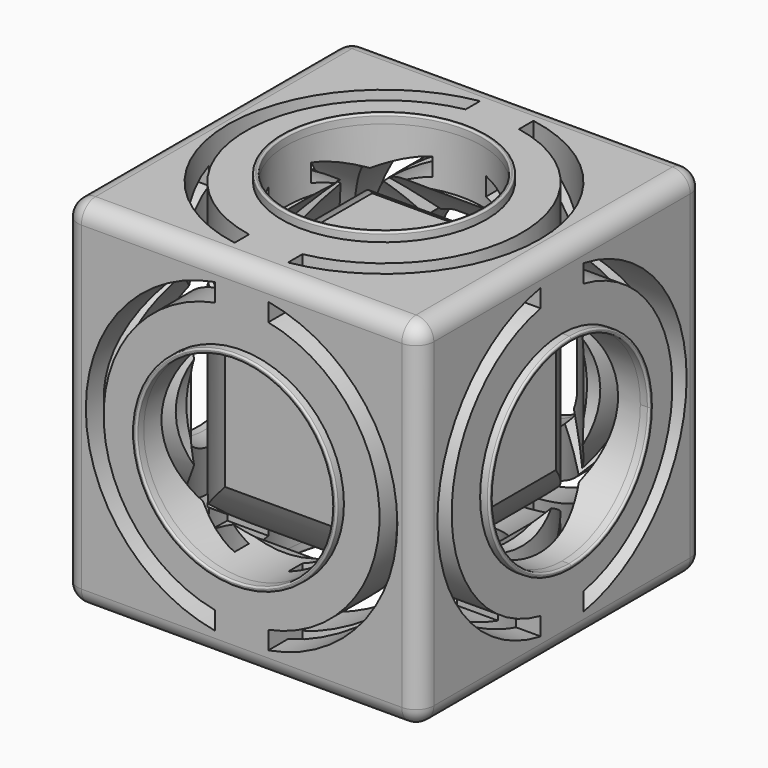
from build123d import *

# Parameters (mm, degrees)
F1_DEPTH  = 40
F2_R      = 11
F3_DEPTH  = 6
F4_R      = 11
F5_DEPTH  = 6
F6_R      = 11
F7_DEPTH  = 6
F8_R      = 11
F9_DEPTH  = 6
F10_R     = 11
F11_DEPTH = 6
F12_R     = 11
F13_DEPTH = 6
F15_DEPTH = 40
F17_DEPTH = 40
F19_DEPTH = 40
F20_R     = 11.5
F20_R_2   = 11
F21_DEPTH = 1
F22_R     = 11.5
F22_R_2   = 11
F23_DEPTH = 1
F25_DEPTH = 1
F26_R     = 11.5
F26_R_2   = 11
F27_DEPTH = 1
F28_R     = 11.5
F28_R_2   = 11
F29_DEPTH = 1
F30_R     = 11.5
F30_R_2   = 11
F31_DEPTH = 1
F32_R     = 2
F33_R     = 0.2


with BuildPart() as f1:
    # F0 (on Top) → F1 (new body)
    with BuildSketch(Plane.XY):
        Polygon((20, 20), (0, 20), (-20, 20), (-20, 0), (-20, -20), (0, -20), (20, -20), (20, 0), align=None)
    extrude(amount=F1_DEPTH)

    # F2 (on face) → F3 (cut)
    with BuildSketch(Plane(origin=(0, 0, 0), x_dir=(1, 0, 0), z_dir=(0, 0, -1))):
        Circle(F2_R)
    extrude(amount=-F3_DEPTH, mode=Mode.SUBTRACT)

    # F4 (on face) → F5 (cut)
    with BuildSketch(Plane.XY.offset(40)):
        Circle(F4_R)
    extrude(amount=-F5_DEPTH, mode=Mode.SUBTRACT)

    # F6 (on face) → F7 (cut)
    with BuildSketch(Plane.XZ.offset(20)):
        with Locations((0, 20)):
            Circle(F6_R)
    extrude(amount=-F7_DEPTH, mode=Mode.SUBTRACT)

    # F8 (on face) → F9 (cut)
    with BuildSketch(Plane.YZ.offset(20)):
        with Locations((0, 20)):
            Circle(F8_R)
    extrude(amount=-F9_DEPTH, mode=Mode.SUBTRACT)

    # F10 (on face) → F11 (cut)
    with BuildSketch(Plane(origin=(0, 20, 0), x_dir=(-1, 0, 0), z_dir=(0, 1, 0))):
        with Locations((0, 20)):
            Circle(F10_R)
    extrude(amount=-F11_DEPTH, mode=Mode.SUBTRACT)

    # F12 (on face) → F13 (cut)
    with BuildSketch(Plane(origin=(-20, 0, 0), x_dir=(0, -1, 0), z_dir=(-1, 0, 0))):
        with Locations((0, 20)):
            Circle(F12_R)
    extrude(amount=-F13_DEPTH, mode=Mode.SUBTRACT)

    # F14 (on face) → F15 (cut)
    with BuildSketch(Plane.XY.offset(40)):
        with BuildLine():
            ThreePointArc((-3, -15.2069063257), (-15.5, 0), (-3, 15.2069063257))
            Line((-3, 15.2069063257), (-3, 17.2409396496))
            ThreePointArc((-3, 17.2409396496), (-17.5, 0), (-3, -17.2409396496))
            Line((-3, -17.2409396496), (-3, -15.2069063257))
        make_face()
        with BuildLine():
            ThreePointArc((3, -17.2409396496), (17.5, 0), (3, 17.2409396496))
            Line((3, 17.2409396496), (3, 15.2069063257))
            ThreePointArc((3, 15.2069063257), (15.5, 0), (3, -15.2069063257))
            Line((3, -15.2069063257), (3, -17.2409396496))
        make_face()
    extrude(amount=-F15_DEPTH, mode=Mode.SUBTRACT)

    # F16 (on face) → F17 (cut)
    with BuildSketch(Plane.YZ.offset(20)):
        with BuildLine():
            ThreePointArc((-3, 4.7930936743), (-15.5, 20), (-3, 35.2069063257))
            Line((-3, 35.2069063257), (-3, 37.2409396496))
            ThreePointArc((-3, 37.2409396496), (-17.5, 20), (-3, 2.7590603504))
            Line((-3, 2.7590603504), (-3, 4.7930936743))
        make_face()
        with BuildLine():
            ThreePointArc((3, 2.7590603504), (17.5, 20), (3, 37.2409396496))
            Line((3, 37.2409396496), (3, 35.2069063257))
            ThreePointArc((3, 35.2069063257), (15.5, 20), (3, 4.7930936743))
            Line((3, 4.7930936743), (3, 2.7590603504))
        make_face()
    extrude(amount=-F17_DEPTH, mode=Mode.SUBTRACT)

    # F18 (on face) → F19 (cut)
    with BuildSketch(Plane(origin=(0, 20, 0), x_dir=(-1, 0, 0), z_dir=(0, 1, 0))):
        with BuildLine():
            ThreePointArc((3, 35.2069063257), (15.5, 20), (3, 4.7930936743))
            Line((3, 4.7930936743), (3, 2.7590603504))
            ThreePointArc((3, 2.7590603504), (17.5, 20), (3, 37.2409396496))
            Line((3, 37.2409396496), (3, 35.2069063257))
        make_face()
        with BuildLine():
            Line((-3, 35.2069063257), (-3, 37.2409396496))
            ThreePointArc((-3, 37.2409396496), (-17.5, 20), (-3, 2.7590603504))
            Line((-3, 2.7590603504), (-3, 4.7930936743))
            ThreePointArc((-3, 4.7930936743), (-15.5, 20), (-3, 35.2069063257))
        make_face()
    extrude(amount=-F19_DEPTH, mode=Mode.SUBTRACT)

    # F20 (on face) → F21 (join)
    with BuildSketch(Plane.XY.offset(40)):
        Circle(F20_R)
        Circle(F20_R_2, mode=Mode.SUBTRACT)
    extrude(amount=F21_DEPTH)

    # F22 (on face) → F23 (join)
    with BuildSketch(Plane(origin=(0, 0, 0), x_dir=(1, 0, 0), z_dir=(0, 0, -1))):
        Circle(F22_R)
        Circle(F22_R_2, mode=Mode.SUBTRACT)
    extrude(amount=F23_DEPTH)

    # F24 (on face) → F25 (join)
    with BuildSketch(Plane.YZ.offset(20)):
        with BuildLine():
            ThreePointArc((11.5, 20), (8.1317279836, 28.1317279836), (0, 31.5))
            Line((0, 31.5), (0, 31))
            ThreePointArc((0, 31), (7.7781745931, 27.7781745931), (11, 20))
            ThreePointArc((11, 20), (7.7781745931, 12.2218254069), (0, 9))
            Line((0, 9), (0, 8.5))
            ThreePointArc((0, 8.5), (8.1317279836, 11.8682720164), (11.5, 20))
        make_face()
        with BuildLine():
            Line((0, 31), (0, 31.5))
            ThreePointArc((0, 31.5), (-11.5, 20), (0, 8.5))
            Line((0, 8.5), (0, 9))
            ThreePointArc((0, 9), (-11, 20), (0, 31))
        make_face()
    extrude(amount=F25_DEPTH)

    # F26 (on face) → F27 (join)
    with BuildSketch(Plane.XZ.offset(20)):
        with Locations((0, 20)):
            Circle(F26_R)
        with Locations((0, 20)):
            Circle(F26_R_2, mode=Mode.SUBTRACT)
    extrude(amount=F27_DEPTH)

    # F28 (on face) → F29 (join)
    with BuildSketch(Plane(origin=(0, 20, 0), x_dir=(-1, 0, 0), z_dir=(0, 1, 0))):
        with Locations((0, 20)):
            Circle(F28_R)
        with Locations((0, 20)):
            Circle(F28_R_2, mode=Mode.SUBTRACT)
    extrude(amount=F29_DEPTH)

    # F30 (on face) → F31 (join)
    with BuildSketch(Plane(origin=(-20, 0, 0), x_dir=(0, -1, 0), z_dir=(-1, 0, 0))):
        with Locations((0, 20)):
            Circle(F30_R)
        with Locations((0, 20)):
            Circle(F30_R_2, mode=Mode.SUBTRACT)
    extrude(amount=F31_DEPTH)

    # F32
    f32_edges = [f1.edges().sort_by_distance(p)[0] for p in [
        (0, -20, 40),
        (-20, -20, 20),
        (20, -20, 20),
        (-20, 0, 0),
        (20, 0, 0),
        (0, 20, 0),
        (20, 20, 20),
        (-20, 20, 20),
        (0, 20, 40),
        (20, 0, 40),
        (-20, 0, 40),
        (0, -20, 0),
    ]]
    fillet(f32_edges, radius=F32_R)

    # F33
    f33_edges = [f1.edges().sort_by_distance(p)[0] for p in [
        (-21, 11.5, 20),
        (-21, 11, 20),
        (-11.5, -21, 20),
        (-11, -21, 20),
        (21, -11.5, 20),
        (21, -11, 20),
        (11.5, 21, 20),
        (11, 21, 20),
        (-11.5, 0, 41),
        (-11, 0, 41),
        (-11.5, 0, -1),
        (-11, 0, -1),
    ]]
    fillet(f33_edges, radius=F33_R)


solid = f1.part
